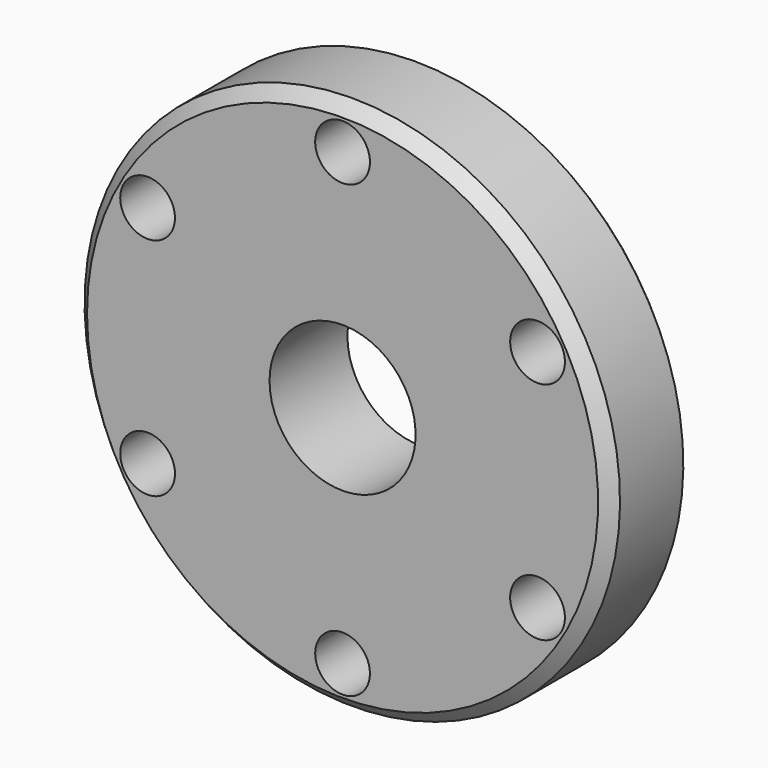
from build123d import *

# Parameters (mm, degrees)
SKETCH048_R            = 3.571875
PAD048_DEPTH           = 13
SKETCH047_R            = 34.925
SKETCH047_R_2          = 9.525
PAD047_DEPTH           = 12.7
CUT041_PLACEMENT_ANGLE = 60
CUT042_PLACEMENT_ANGLE = 60
CUT043_PLACEMENT_ANGLE = 60
CUT044_PLACEMENT_ANGLE = 60
CUT045_PLACEMENT_ANGLE = 60
CHAMFER005_SIZE        = 1.59
CHAMFER004_SIZE        = 0.79


with BuildPart() as body049:
    # Sketch048 → Pad048 (new body)
    with BuildSketch(Plane.XZ):
        with Locations((0, 29.36875)):
            Circle(SKETCH048_R)
    extrude(amount=PAD048_DEPTH)


with BuildPart() as chamfer004:
    # Sketch047 → Pad047 (new body)
    with BuildSketch(Plane.XZ):
        Circle(SKETCH047_R)
        Circle(SKETCH047_R_2, mode=Mode.SUBTRACT)
    extrude(amount=PAD047_DEPTH)

    # Cut041: cut Body049
    add(body049.part, mode=Mode.SUBTRACT)


with BuildPart() as chamfer004_1:
    # Cut041 placement: moved
    add(chamfer004.part.rotate(Axis((0, 0, 0), (0, 1, 0)), CUT041_PLACEMENT_ANGLE))

    # Cut042: cut Body049
    add(body049.part, mode=Mode.SUBTRACT)


with BuildPart() as chamfer004_2:
    # Cut042 placement: moved
    add(chamfer004_1.part.rotate(Axis((0, 0, 0), (0, 1, 0)), CUT042_PLACEMENT_ANGLE))

    # Cut043: cut Body049
    add(body049.part, mode=Mode.SUBTRACT)


with BuildPart() as chamfer004_3:
    # Cut043 placement: moved
    add(chamfer004_2.part.rotate(Axis((0, 0, 0), (0, 1, 0)), CUT043_PLACEMENT_ANGLE))

    # Cut044: cut Body049
    add(body049.part, mode=Mode.SUBTRACT)


with BuildPart() as chamfer004_4:
    # Cut044 placement: moved
    add(chamfer004_3.part.rotate(Axis((0, 0, 0), (0, 1, 0)), CUT044_PLACEMENT_ANGLE))

    # Cut045: cut Body049
    add(body049.part, mode=Mode.SUBTRACT)


with BuildPart() as chamfer004_5:
    # Cut045 placement: moved
    add(chamfer004_4.part.rotate(Axis((0, 0, 0), (0, 1, 0)), CUT045_PLACEMENT_ANGLE))

    # Cut046: cut Body049
    add(body049.part, mode=Mode.SUBTRACT)

    # Chamfer005
    chamfer005_edges = [chamfer004_5.edges().sort_by_distance(p)[0] for p in [
        (-17.4625, -12.7, -30.245937),
    ]]
    chamfer(chamfer005_edges, length=CHAMFER005_SIZE)

    # Chamfer004
    chamfer004_edges = [chamfer004_5.edges().sort_by_distance(p)[0] for p in [
        (-17.4625, 0, -30.245937),
    ]]
    chamfer(chamfer004_edges, length=CHAMFER004_SIZE)


solid = chamfer004_5.part
